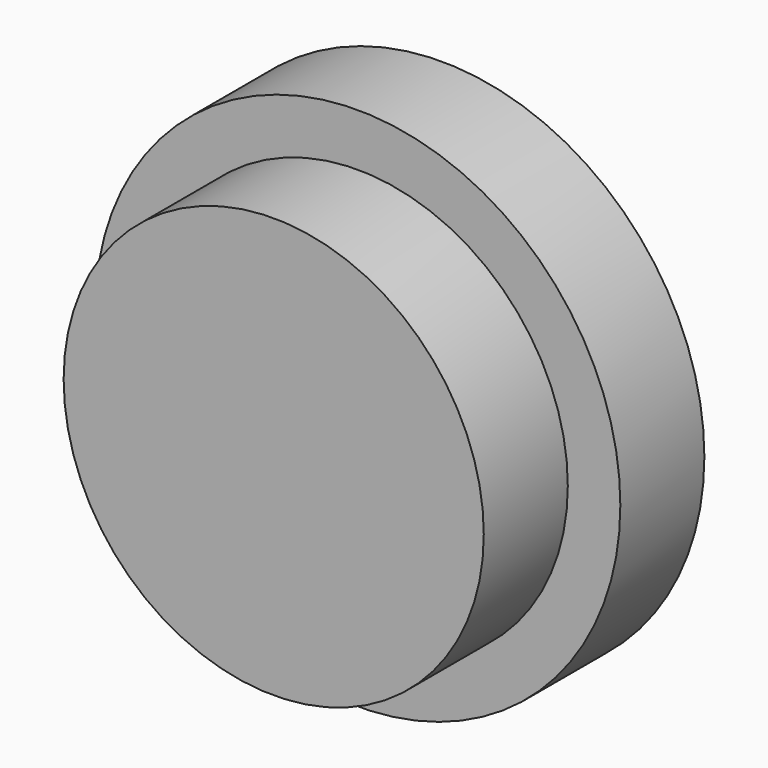
from build123d import *

# Parameters (mm, degrees)
F0_R     = 50
F0_R_2   = 40
F1_DEPTH = 20
F2_DEPTH = 40


with BuildPart() as f1:
    # F0 (on Front) → F1 (new body)
    with BuildSketch(Plane.XZ):
        Circle(F0_R)
        Circle(F0_R_2, mode=Mode.SUBTRACT)
        Circle(F0_R)
        Circle(F0_R_2, mode=Mode.SUBTRACT)
        Circle(F0_R_2)
    extrude(amount=F1_DEPTH)

    # F0 (on Front) → F2 (join)
    with BuildSketch(Plane.XZ):
        Circle(F0_R_2)
    extrude(amount=F2_DEPTH)


solid = f1.part
